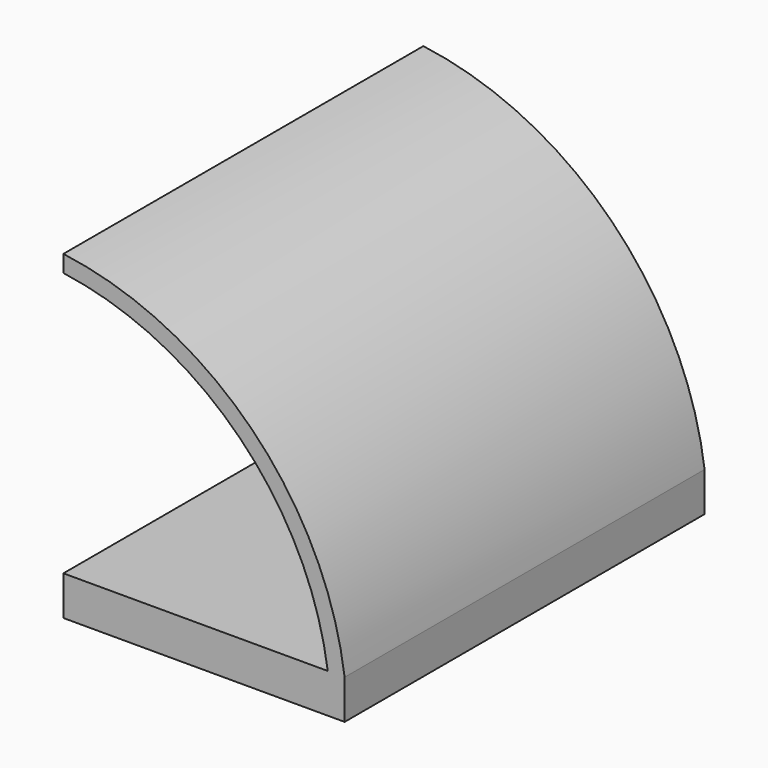
from build123d import *

# Parameters (mm, degrees)
F1_DEPTH = 80


with BuildPart() as f1:
    # F0 (on Front) → F1 (new body)
    with BuildSketch(Plane.XZ):
        with BuildLine():
            ThreePointArc((0, 52.438467), (31.378148, 36.816616), (47, 5.438467))
            Line((47, 5.438467), (50, 5.438467))
            ThreePointArc((50, 5.438467), (33.480208, 38.918676), (0, 55.438467))
            Line((0, 55.438467), (0, 52.438467))
        make_face()
        Polygon((50, 5.438467), (47, 5.438467), (0, 5.438467), (0, -1.561533), (50, -1.561533), align=None)
    extrude(amount=F1_DEPTH)


solid = f1.part
